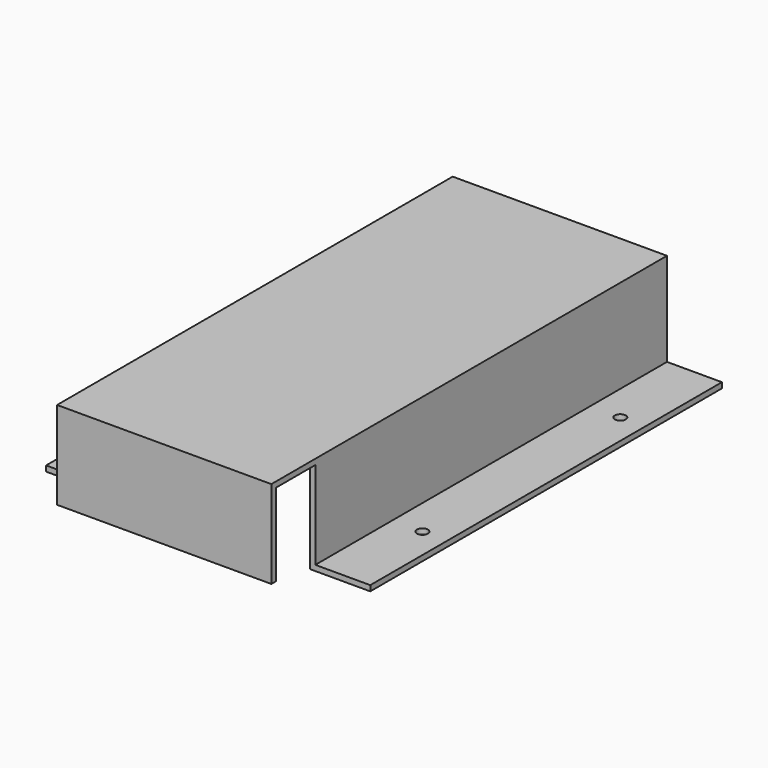
from build123d import *

# Parameters (mm, degrees)
F0_W      = 39
F0_H      = 90
F1_DEPTH  = 1
F2_W      = 1
F2_H      = 90
F3_DEPTH  = 17
F4_W      = 90
F4_H      = 1
F5_DEPTH  = 10
F6_W      = 10
F6_H      = 18
F7_DEPTH  = 11
F8_W      = 38
F8_H      = 1
F9_DEPTH  = 15
F10_R     = 1
F11_DEPTH = 1


with BuildPart() as f1:
    # F0 (on Top) → F1 (new body)
    with BuildSketch(Plane.XY):
        Rectangle(F0_W, F0_H)
    extrude(amount=F1_DEPTH)

    # F2 (on face) → F3 (join)
    with BuildSketch(Plane(origin=(0, 0, 0), x_dir=(1, 0, 0), z_dir=(0, 0, -1))):
        with Locations((19, 0)):
            Rectangle(F2_W, F2_H)
    extrude(amount=F3_DEPTH)

    # F4 (on face) → F5 (join)
    with BuildSketch(Plane.YZ.offset(19.5)):
        with Locations((0, -16.5)):
            Rectangle(F4_W, F4_H)
    extrude(amount=F5_DEPTH)

    # F6 (on face) → F7 (cut, through all)
    with BuildSketch(Plane.YZ.offset(29.5)):
        with Locations((-40, -8)):
            Rectangle(F6_W, F6_H)
    extrude(amount=-F7_DEPTH, mode=Mode.SUBTRACT)

    # F8 (on face) → F9 (join)
    with BuildSketch(Plane(origin=(0, 0, 0), x_dir=(1, 0, 0), z_dir=(0, 0, -1))):
        with Locations((-0.5, 44.5)):
            Rectangle(F8_W, F8_H)
    extrude(amount=F9_DEPTH)

    # F10 (on face) → F11 (cut, through all)
    with BuildSketch(Plane.XY.offset(-16)):
        with Locations((25, 27.5)):
            Circle(F10_R)
        with Locations((25, -17.5)):
            Circle(F10_R)
    extrude(amount=-F11_DEPTH, mode=Mode.SUBTRACT)

    # F12: F1 across plane


with BuildPart() as f1_1:
    add(f1.part)
    add(f1.part.mirror(Plane.YZ))


solid = f1_1.part
